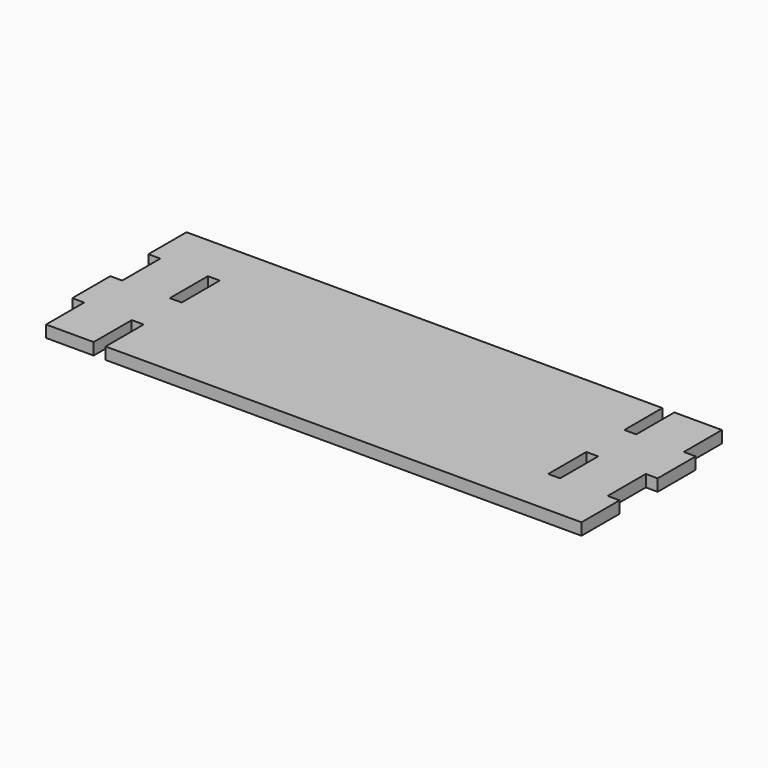
from build123d import *

# Parameters (mm, degrees)
F0_W     = 3.175
F0_H     = 12.7
F1_DEPTH = 3.175


with BuildPart() as f1:
    # F0 (on Top) → F1 (new body)
    with BuildSketch(Plane.XY):
        Polygon((69.85, 12.7), (69.85, 25.4), (57.15, 25.4), (57.15, 12.7), (53.975, 12.7), (53.975, 25.4), (-73.025, 25.4), (-73.025, 12.7), (-69.85, 12.7), (-69.85, 0), (-73.025, 0), (-73.025, -12.7), (-69.85, -12.7), (-69.85, -25.4), (-57.15, -25.4), (-57.15, -12.7), (-53.975, -12.7), (-53.975, -25.4), (73.025, -25.4), (73.025, -12.7), (69.85, -12.7), (69.85, 0), (73.025, 0), (73.025, 12.7), align=None)
        with Locations((55.5625, -6.35)):
            Rectangle(F0_W, F0_H, mode=Mode.SUBTRACT)
        with Locations((-55.5625, 6.35)):
            Rectangle(F0_W, F0_H, mode=Mode.SUBTRACT)
    extrude(amount=F1_DEPTH)


solid = f1.part
